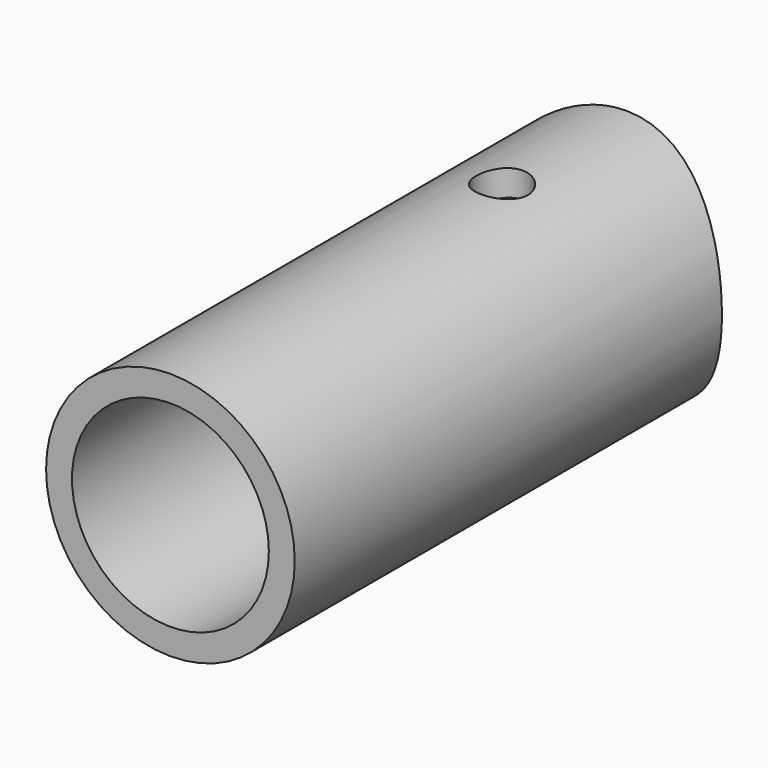
from build123d import *

# Parameters (mm, degrees)
F0_R     = 24
F0_R_2   = 19
F1_DEPTH = 110
F4_R     = 5
F5_DEPTH = 48.4
F6_DEPTH = 47.8


with BuildPart() as f1:
    # F0 (on Front) → F1 (new body)
    with BuildSketch(Plane.XZ):
        Circle(F0_R)
        Circle(F0_R_2, mode=Mode.SUBTRACT)
    extrude(amount=F1_DEPTH)

    # F4 (on offset) → F5 (cut, symmetric)
    with BuildSketch(Plane.XY.offset(-20)):
        with Locations((0, -30)):
            Circle(F4_R)
    extrude(amount=F5_DEPTH, both=True, mode=Mode.SUBTRACT)

    # F4 (on offset) → F6 (cut, symmetric)
    with BuildSketch(Plane.XY.offset(-20)):
        with BuildLine():
            ThreePointArc((0, 0), (11.0367302172, -1.3744273836), (21.3992744684, -5.4137517283))
            ThreePointArc((21.3992744684, -5.4137517283), (23.0936332862, -6.3776735341), (24.744655937, -7.414071748))
            Line((24.744655937, -7.414071748), (24.744655937, 8.4094852209))
            Line((24.744655937, 8.4094852209), (-25.4213437438, 8.4094852209))
            Line((-25.4213437438, 8.4094852209), (-25.4213437438, -7.8684058751))
            ThreePointArc((-25.4213437438, -7.8684058751), (-13.3056052921, -2.0120846305), (0, 0))
        make_face()
    extrude(amount=F6_DEPTH, both=True, mode=Mode.SUBTRACT)


solid = f1.part
